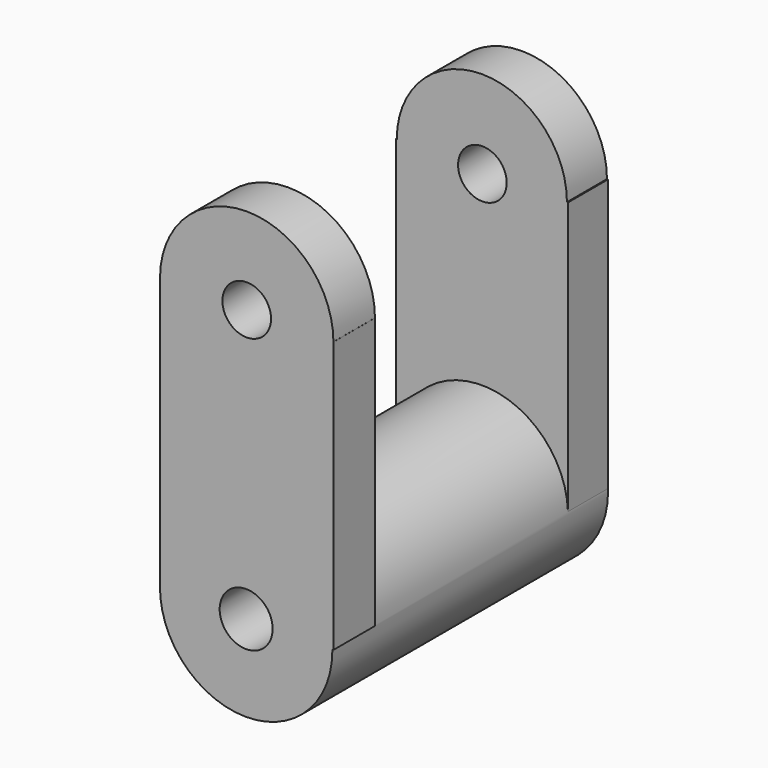
from build123d import *

# Parameters (mm, degrees)
F0_R      = 23.1868953792
F1_DEPTH  = 92.71
F3_DEPTH  = 13.97
F5_DEPTH  = 13.97
F7_DEPTH  = 13.462
F9_DEPTH  = 13.462
F10_R     = 7.1263406122
F11_DEPTH = 92.711
F12_R     = 6.5437745526
F13_DEPTH = 92.711


with BuildPart() as f1:
    # F0 (on Front) → F1 (new body)
    with BuildSketch(Plane.XZ):
        with Locations((-13.3315408602, -39.2239503562)):
            Circle(F0_R)
    extrude(amount=-F1_DEPTH)

    # F2 (on face) → F3 (join)
    with BuildSketch(Plane.XZ):
        with BuildLine():
            Line((-36.5160371978, 34.0590924025), (-36.5160371978, -38.8904134022))
            ThreePointArc((-36.5160371978, -38.8904134022), (-13.3315408602, -16.0370549771), (9.8529554773, -38.8904134022))
            Line((9.8529554773, -38.8904134022), (10.1600009948, -38.8904134022))
            Line((10.1600009948, -38.8904134022), (10.1600009948, 34.0590924025))
            Line((10.1600009948, 34.0590924025), (-36.5160371978, 34.0590924025))
        make_face()
    extrude(amount=-F3_DEPTH)

    # F4 (on face) → F5 (join)
    with BuildSketch(Plane.XZ):
        with BuildLine():
            Line((-36.5011457602, 34.0590924025), (10.1451095572, 34.0590924025))
            ThreePointArc((10.1451095572, 34.0590924025), (-13.1780181015, 57.3822200612), (-36.5011457602, 34.0590924025))
        make_face()
    extrude(amount=-F5_DEPTH)

    # F6 (on face) → F7 (join)
    with BuildSketch(Plane(origin=(0, 92.71, 0), x_dir=(-1, 0, 0), z_dir=(0, 1, 0))):
        with BuildLine():
            Line((-9.8427801074, 34.751817584), (-9.8427801074, -38.4604289001))
            ThreePointArc((-9.8427801074, -38.4604289001), (13.0780994515, -16.038440123), (36.4836342633, -37.954033673))
            Line((36.4836342633, -37.954033673), (36.4836342633, 34.751817584))
            Line((36.4836342633, 34.751817584), (-9.8427801074, 34.751817584))
        make_face()
    extrude(amount=-F7_DEPTH)

    # F8 (on face) → F9 (join)
    with BuildSketch(Plane(origin=(0, 92.71, 0), x_dir=(-1, 0, 0), z_dir=(0, 1, 0))):
        with BuildLine():
            Line((-9.5691616246, 34.751817584), (36.2100157805, 34.751817584))
            ThreePointArc((36.2100157805, 34.751817584), (13.3204270779, 57.6414062866), (-9.5691616246, 34.751817584))
        make_face()
    extrude(amount=-F9_DEPTH)

    # F10 (on face) → F11 (cut, through all)
    with BuildSketch(Plane.XZ):
        with Locations((-13.3315408602, -39.2239503562)):
            Circle(F10_R)
    extrude(amount=-F11_DEPTH, mode=Mode.SUBTRACT)

    # F12 (on face) → F13 (cut, through all)
    with BuildSketch(Plane.XZ):
        with Locations((-13.1780181015, 34.0590924025)):
            Circle(F12_R)
    extrude(amount=-F13_DEPTH, mode=Mode.SUBTRACT)


solid = f1.part
